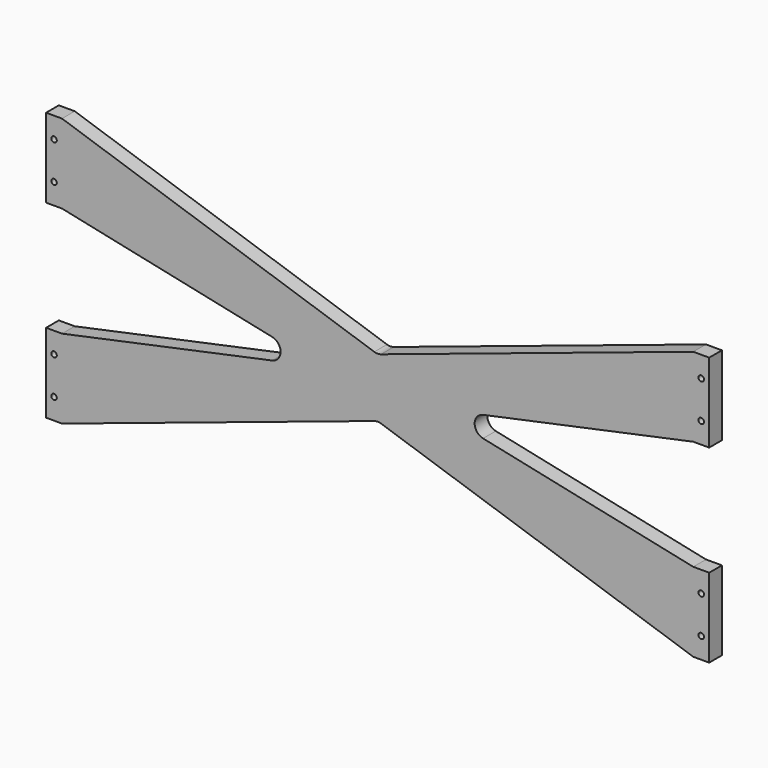
from build123d import *

# Parameters (mm, degrees)
F1_DEPTH = 19.05
F2_R     = 3.302
F3_DEPTH = 19.05


with BuildPart() as f1:
    # F0 (on Front) → F1 (new body)
    with BuildSketch(Plane.XZ):
        with BuildLine():
            Line((-396.621, 113.095986), (-377.571, 113.095986))
            Line((-377.571, 113.095986), (-126.140116, 59.652701))
            ThreePointArc((-126.140116, 59.652701), (-116.080594, 47.230227), (-126.140116, 34.807752))
            Line((-126.140116, 34.807752), (-377.571, -18.635532))
            Line((-377.571, -18.635532), (-396.621, -18.635532))
            Line((-396.621, -18.635532), (-396.621, -113.377532))
            Line((-396.621, -113.377532), (-377.571, -113.377532))
            Line((-377.571, -113.377532), (-4.005737, 10.787625))
            ThreePointArc((-4.005737, 10.787625), (0, 11.4359), (4.005737, 10.787625))
            Line((4.005737, 10.787625), (377.571, -113.377532))
            Line((377.571, -113.377532), (396.621, -113.377532))
            Line((396.621, -113.377532), (396.621, -18.635532))
            Line((396.621, -18.635532), (377.571, -18.635532))
            Line((377.571, -18.635532), (126.140116, 34.807752))
            ThreePointArc((126.140116, 34.807752), (116.080594, 47.230227), (126.140116, 59.652701))
            Line((126.140116, 59.652701), (377.571, 113.095986))
            Line((377.571, 113.095986), (396.621, 113.095986))
            Line((396.621, 113.095986), (396.621, 207.837986))
            Line((396.621, 207.837986), (377.571, 207.837986))
            Line((377.571, 207.837986), (4.005737, 83.672829))
            ThreePointArc((4.005737, 83.672829), (0, 83.024554), (-4.005737, 83.672829))
            Line((-4.005737, 83.672829), (-377.571, 207.837986))
            Line((-377.571, 207.837986), (-396.621, 207.837986))
            Line((-396.621, 207.837986), (-396.621, 113.095986))
        make_face()
    extrude(amount=F1_DEPTH)

    # F2 (on face) → F3 (cut, through all)
    with BuildSketch(Plane.XZ):
        with Locations((387.096, 182.818986)):
            Circle(F2_R)
        with Locations((387.096, 138.114986)):
            Circle(F2_R)
        with Locations((-387.096, 182.818986)):
            Circle(F2_R)
        with Locations((-387.096, 138.114986)):
            Circle(F2_R)
        with Locations((387.096, -43.654532)):
            Circle(F2_R)
        with Locations((387.096, -88.358532)):
            Circle(F2_R)
        with Locations((-387.096, -88.358532)):
            Circle(F2_R)
        with Locations((-387.096, -43.654532)):
            Circle(F2_R)
    extrude(amount=F3_DEPTH, mode=Mode.SUBTRACT)


solid = f1.part
